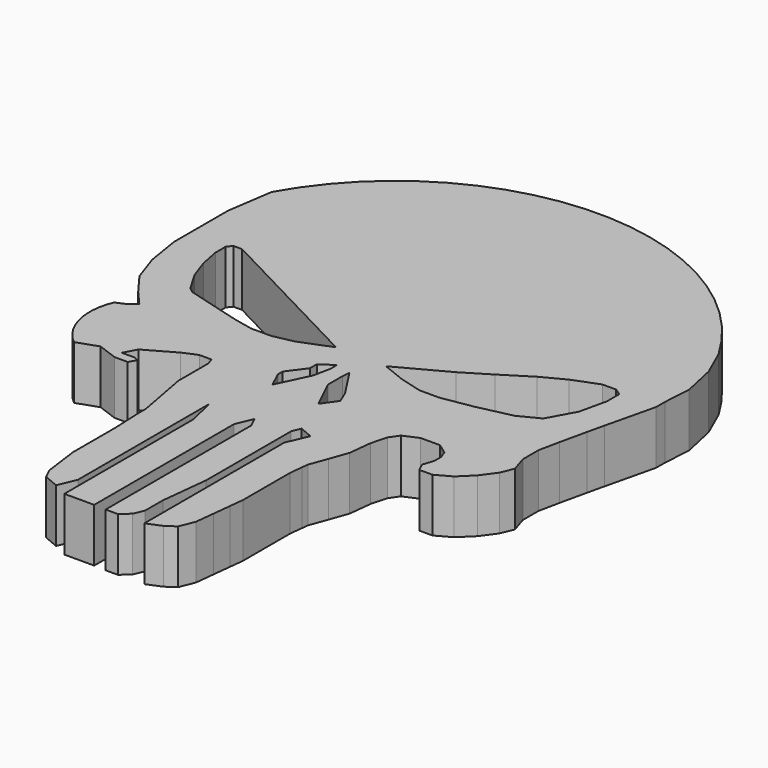
from build123d import *

# Parameters (mm, degrees)
F1_DEPTH = 6.35


with BuildPart() as f1:
    # F0 (on Top) → F1 (new body)
    with BuildSketch(Plane.XY):
        with BuildLine():
            ThreePointArc((23.402542, 23.817074), (-3.062865, 38.874712), (-29.25491, 23.346445))
            Line((-29.25491, 23.346445), (-30.065471, 17.915688))
            Line((-30.065471, 17.915688), (-30.065471, 15.159781))
            Line((-30.065471, 15.159781), (-30.065471, 12.403875))
            Line((-30.065471, 12.403875), (-30.065471, 9.891136))
            Line((-30.065471, 9.891136), (-29.417021, 5.838332))
            Line((-29.417021, 5.838332), (-28.282236, 2.515032))
            Line((-28.282236, 2.515032), (-26.417948, 0))
            Line((-26.417948, 0), (-24.796825, -1.861996))
            Line((-24.796825, -1.861996), (-25.589179, -2.551849))
            Line((-25.589179, -2.551849), (-26.808415, -3.101752))
            ThreePointArc((-26.808415, -3.101752), (-27.185988, -7.708848), (-24.735437, -11.628375))
            Line((-24.735437, -11.628375), (-22.263491, -10.76789))
            Line((-22.263491, -10.76789), (-19.924534, -11.628375))
            Line((-19.924534, -11.628375), (-18.360017, -11.628375))
            Line((-18.360017, -11.628375), (-17.880529, -10.806396))
            Line((-17.880529, -10.806396), (-18.360017, -10.526695))
            Line((-18.360017, -10.526695), (-19.924534, -10.526695))
            Line((-19.924534, -10.526695), (-19.142276, -9.046921))
            Line((-19.142276, -9.046921), (-15.700337, -7.091273))
            Line((-15.700337, -7.091273), (-14.057593, -6.38724))
            Line((-14.057593, -6.38724), (-12.5713, -6.38724))
            Line((-12.5713, -6.38724), (-12.336623, -7.267281))
            Line((-12.336623, -7.267281), (-12.336623, -11.628375))
            Line((-12.336623, -11.628375), (-11.163235, -17.93534))
            Line((-11.163235, -17.93534), (-11.163235, -18.981609))
            Line((-11.163235, -18.981609), (-11.006783, -22.580002))
            Line((-11.006783, -22.580002), (-11.006783, -24.692101))
            Line((-11.006783, -24.692101), (-11.006783, -28.948328))
            Line((-11.006783, -28.948328), (-10.449933, -33.126414))
            Line((-10.449933, -33.126414), (-9.883413, -34.330271))
            Line((-9.883413, -34.330271), (-8.097164, -35.095806))
            Line((-8.097164, -35.095806), (-7.192442, -32.984786))
            Line((-7.192442, -32.984786), (-7.192442, -30.364629))
            Line((-7.192442, -30.364629), (-7.192442, -26.682248))
            Line((-7.192442, -26.682248), (-7.192442, -22.999866))
            Line((-7.192442, -22.999866), (-7.192442, -19.388299))
            Line((-7.192442, -19.388299), (-7.192442, -13.439838))
            Line((-7.192442, -13.439838), (-6.413477, -16.838958))
            Line((-6.413477, -16.838958), (-6.413477, -20.521341))
            Line((-6.413477, -20.521341), (-6.413477, -24.557797))
            Line((-6.413477, -24.557797), (-6.413477, -28.806698))
            Line((-6.413477, -28.806698), (-6.413477, -34.542717))
            Line((-6.413477, -34.542717), (-6.413477, -35.959017))
            Line((-6.413477, -35.959017), (-2.872725, -35.959017))
            Line((-2.872725, -35.959017), (-2.872725, -15.210214))
            Line((-2.872725, -15.210214), (-2.022945, -13.227393))
            Line((-2.022945, -13.227393), (-1.456425, -14.431247))
            Line((-1.456425, -14.431247), (-1.456425, -16.484883))
            Line((-1.456425, -16.484883), (-1.456425, -21.158677))
            Line((-1.456425, -21.158677), (-1.456425, -36.029831))
            Line((-1.456425, -36.029831), (0, -36.029831))
            Line((0, -36.029831), (1.022101, -35.109237))
            Line((1.022101, -35.109237), (1.531237, -33.921254))
            Line((1.531237, -33.921254), (1.531237, -31.285223))
            Line((1.531237, -31.285223), (2.155141, -25.620023))
            Line((2.155141, -25.620023), (2.155141, -20.662971))
            Line((2.155141, -20.662971), (2.155141, -16.484883))
            Line((2.155141, -16.484883), (2.155141, -13.014947))
            Line((2.155141, -13.014947), (2.587357, -12.006444))
            Line((2.587357, -12.006444), (4.159939, -12.680407))
            Line((4.159939, -12.680407), (3.753364, -13.629085))
            Line((3.753364, -13.629085), (3.075737, -15.210214))
            Line((3.075737, -15.210214), (3.075737, -17.26385))
            Line((3.075737, -17.26385), (3.075737, -35.959017))
            Line((3.075737, -35.959017), (4.775298, -35.250865))
            Line((4.775298, -35.250865), (5.908338, -34.471899))
            Line((5.908338, -34.471899), (6.616489, -32.701526))
            Line((6.616489, -32.701526), (6.869, -30.408662))
            Line((6.869, -30.408662), (7.103555, -28.278847))
            Line((7.103555, -28.278847), (7.290181, -26.584241))
            Line((7.290181, -26.584241), (7.290181, -24.203721))
            Line((7.290181, -24.203721), (7.290181, -21.866826))
            Line((7.290181, -21.866826), (7.290181, -19.600745))
            Line((7.290181, -19.600745), (7.457498, -18.081469))
            Line((7.457498, -18.081469), (7.544803, -17.288722))
            Line((7.544803, -17.288722), (8.316048, -15.210214))
            Line((8.316048, -15.210214), (9.095014, -13.014947))
            Line((9.095014, -13.014947), (9.394606, -10.294581))
            Line((9.394606, -10.294581), (9.895026, -8.41949))
            Line((9.895026, -8.41949), (10.646053, -7.339889))
            Line((10.646053, -7.339889), (12.382803, -6.588862))
            Line((12.382803, -6.588862), (14.682825, -6.588862))
            Line((14.682825, -6.588862), (15.903244, -7.480707))
            Line((15.903244, -7.480707), (16.231818, -8.372552))
            Line((16.231818, -8.372552), (16.231818, -9.358275))
            Line((16.231818, -9.358275), (15.809365, -10.672572))
            Line((15.809365, -10.672572), (16.278757, -11.658295))
            Line((16.278757, -11.658295), (17.076723, -11.658295))
            Line((17.076723, -11.658295), (17.827751, -11.658295))
            Line((17.827751, -11.658295), (19.611441, -10.672572))
            Line((19.611441, -10.672572), (21.160433, -9.170517))
            Line((21.160433, -9.170517), (22.427792, -7.433767))
            Line((22.427792, -7.433767), (23.038002, -5.931713))
            Line((23.038002, -5.931713), (22.427792, -4.007206))
            Line((22.427792, -4.007206), (22.427792, -1.660245))
            Line((22.427792, -1.660245), (22.944123, 0.827532))
            Line((22.944123, 0.827532), (23.648212, 3.972458))
            Line((23.648212, 3.972458), (24.117604, 5.990844))
            Line((24.117604, 5.990844), (25.523951, 11.89182))
            Line((25.523951, 11.89182), (25.523951, 13.210032))
            Line((25.523951, 13.210032), (25.74341, 16.501874))
            Line((25.74341, 16.501874), (24.865583, 20.525234))
            Line((24.865583, 20.525234), (23.402542, 23.817074))
        make_face()
        Polygon((-3.250899, -3.01964), (-5.046938, -6.791321), (-5.944957, -4.875546), (-5.944957, -4.157131), (-4.388391, -2.061753), (-4.388391, -1.043998), (-2.831824, 0), (-2.831824, -0.98413), align=None, mode=Mode.SUBTRACT)
        Polygon((-1.035786, -1.402149), (-0.969216, -0.468996), (1.295493, -3.957871), (1.907576, -5.426871), (0.68341, -7.140704), (-1.035786, -3.558452), align=None, mode=Mode.SUBTRACT)
        Polygon((-24.221089, 12.671578), (-5.1312, 2.728927), (-8.855303, 1.25334), (-11.244349, 0.761477), (-13.633396, 0.761477), (-15.917044, 1.25334), (-20.484339, 2.518129), (-22.486921, 3.080258), (-23.084182, 3.57212), (-24.454372, 5.926034), (-25.262432, 8.244814), (-25.71916, 10.563594), (-25.71916, 12.109448), (-25.262432, 12.671578), align=None, mode=Mode.SUBTRACT)
        Polygon((3.62141, 1.55088), (0.867034, 2.65263), (6.681826, 5.774255), (9.803452, 7.671713), (13.108702, 9.752797), (15.801869, 11.160589), (18.801078, 12.323546), (20.453703, 12.323546), (21.249412, 11.772673), (21.249412, 9.936422), (20.514911, 6.69238), (18.801078, 3.570755), (16.413951, 2.346588), (12.312994, 1.428463), (8.640493, 0.816379), (6.314577, 0.816379), align=None, mode=Mode.SUBTRACT)
    extrude(amount=F1_DEPTH)


solid = f1.part
